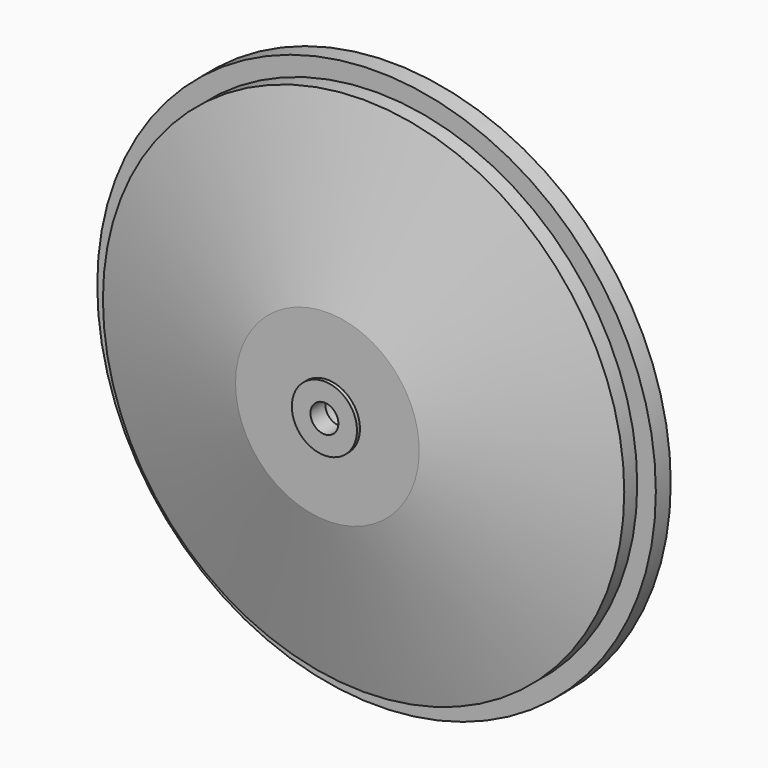
from build123d import *


with BuildPart() as f1:
    # F0 (on Top) → F1 (revolve)
    with BuildSketch(Plane.XY):
        Polygon((-140, -26.295088), (-140, -35), (-130, -35), (-130, -40), (-54, -40), (-54, -30), (-46, -30), (-46, -40), (-12.5, -40), (-12.5, -10), (-17.5, -10), (-17.5, -2), (-49.329496, -2), align=None)
    revolve(axis=Axis((0, -27.422881, 0), (0, 1, 0)))


with BuildPart() as f2:
    # F0 (on Top) → F2 (revolve)
    with BuildSketch(Plane.XY):
        Polygon((-140, -35), (-150, -35), (-150, -45), (-130, -45), (-130, -40), (-130, -35), align=None)
    revolve(axis=Axis((0, -27.422881, 0), (0, 1, 0)))


with BuildPart() as f3:
    # F0 (on Top) → F3 (revolve)
    with BuildSketch(Plane.XY):
        Polygon((-17.5, 0), (-17.5, -2), (-17.5, -10), (-12.5, -10), (-7.5, -10), (-7.5, 0), align=None)
    revolve(axis=Axis((0, -27.422881, 0), (0, 1, 0)))


with BuildPart() as f5:
    # F0 (on Top) → F5 (revolve)
    with BuildSketch(Plane.XY):
        Polygon((-54, -30), (-54, -40), (-54, -50), (-46, -50), (-46, -40), (-46, -30), align=None)
    revolve(axis=Axis((0, -27.422881, 0), (0, 1, 0)))


with BuildPart() as f6_1:
    # F6: instance of F1
    add(f1.part.mirror(Plane.XZ.offset(40)))


with BuildPart() as f6_2:
    # F6: instance of F3
    add(f3.part.mirror(Plane.XZ.offset(40)))


solid = Compound([f1.part, f2.part, f3.part, f5.part, f6_1.part, f6_2.part])
